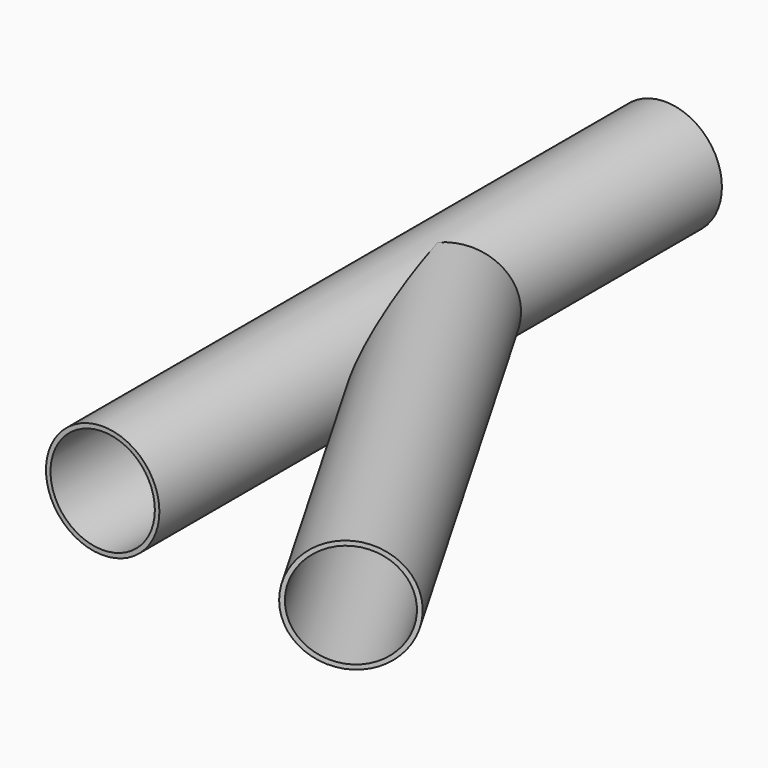
from build123d import *

# Parameters (mm, degrees)
F0_R          = 25
F0_R_2        = 23
F1_DEPTH      = 310
F7_R          = 25
F7_R_2        = 23
F8_DEPTH      = 200
F8_DEPTH_BACK = 25


with BuildPart() as f1:
    # F0 (on Front) → F1 (new body)
    with BuildSketch(Plane.XZ):
        Circle(F0_R)
        Circle(F0_R_2, mode=Mode.SUBTRACT)
    extrude(amount=F1_DEPTH)

    # F7 (on line) → F8 (join, two sides)
    with BuildSketch(Plane(origin=(69.9519052838, -121.1602540378, 0), x_dir=(-0.8660254038, -0.5, 0), z_dir=(-0.5, 0.8660254038, 0))) as f8_sk:
        with Locations((57.6794919243, 0)):
            Circle(F7_R)
        with Locations((57.6794919243, 0)):
            Circle(F7_R_2, mode=Mode.SUBTRACT)
    extrude(amount=-F8_DEPTH)
    extrude(f8_sk.sketch, amount=F8_DEPTH_BACK)


solid = f1.part
